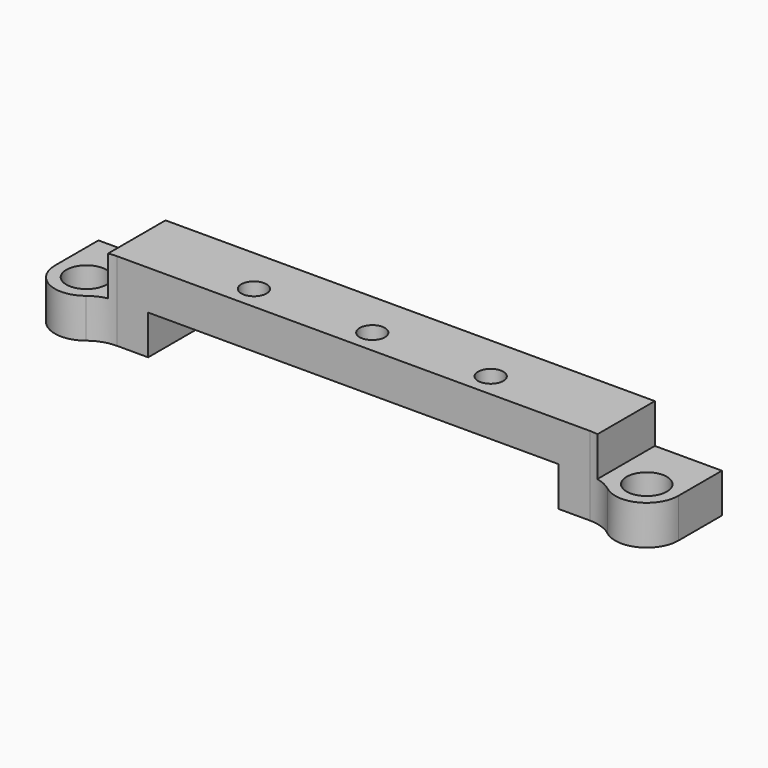
from build123d import *

# Parameters (mm, degrees)
F1_DEPTH = 10.9
F3_DEPTH = 10
F4_R     = 5
F6_D     = 5.1
F9_D     = 3.2


with BuildPart() as f1:
    # F0 (on Front) → F1 (new body)
    with BuildSketch(Plane.XZ):
        Polygon((-26, 0), (0, 0), (0, 5), (-31, 5), (-31, 0), (-39.5, 0), (-39.5, -5), (-26, -5), align=None)
    extrude(amount=F1_DEPTH)

    # F2 (on face) → F3 (cut, through all)
    with BuildSketch(Plane(origin=(0, 0, -5), x_dir=(1, 0, 0), z_dir=(0, 0, -1))):
        with BuildLine():
            ThreePointArc((-39.5, 6.9), (-36.5914129318, 10.7482226823), (-32.0955910939, 9))
            Line((-32.0955910939, 9), (0, 9))
            Line((0, 9), (0, 12.9))
            Line((0, 12.9), (-39.5, 12.9))
            Line((-39.5, 12.9), (-39.5, 6.9))
        make_face()
    extrude(amount=-F3_DEPTH, mode=Mode.SUBTRACT)

    # F4
    f4_edges = [f1.edges().sort_by_distance(p)[0] for p in [
        (-32.095591, -9, -2.5),
    ]]
    fillet(f4_edges, radius=F4_R)

    # F6 (through all)
    with Locations(Plane(origin=(0, 0, -5), x_dir=(1, 0, 0), z_dir=(0, 0, -1))):
        with Locations((-35.5, 6.9)):
            Hole(F6_D / 2)

    # F7: F1 across face


with BuildPart() as f1_1:
    add(f1.part)
    add(f1.part.mirror(Plane(origin=(0, -4.5, 2.5), x_dir=(0, 1, 0), z_dir=(1, 0, 0))))

    # F9 (through all)
    with Locations(Plane(origin=(0, 0, 0), x_dir=(1, 0, 0), z_dir=(0, 0, -1))):
        with Locations((-15, 6), (0, 6), (15, 6)):
            Hole(F9_D / 2)


solid = f1_1.part
